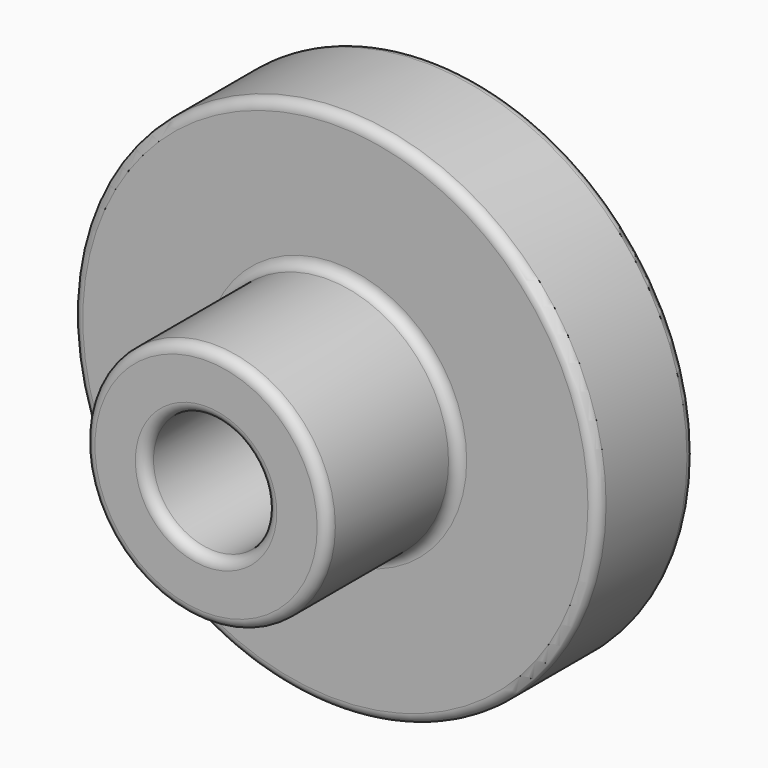
from build123d import *

# Parameters (mm, degrees)
F2_R = 0.5


with BuildPart() as f1:
    # F0 (on Top) → F1 (revolve)
    with BuildSketch(Plane.XY):
        Polygon((13, 14), (0, 14), (0, 9), (3, 9), (3, 0), (6, 0), (6, 8), (13, 8), align=None)
    revolve(axis=Axis((0, 0.918181, 0), (0, 1, 0)))

    # F2
    f2_edges = [f1.edges().sort_by_distance(p)[0] for p in [
        (-13, 14, 0),
        (-13, 8, 0),
        (-6, 0, 0),
        (-6, 8, 0),
        (6, 4, 0),
        (-3, 9, 0),
        (-3, 0, 0),
        (3, 4.5, 0),
    ]]
    fillet(f2_edges, radius=F2_R)

    # F3 (on Top) → F4 (revolve, cut)
    with BuildSketch(Plane.XY):
        with BuildLine():
            Line((9, 19.749151), (9, 13.250849))
            ThreePointArc((9, 13.250849), (12.324263, 16.5), (9, 19.749151))
        make_face()
    revolve(axis=Axis((9, 16.5, 0), (0, 1, 0)), mode=Mode.SUBTRACT)


solid = f1.part
